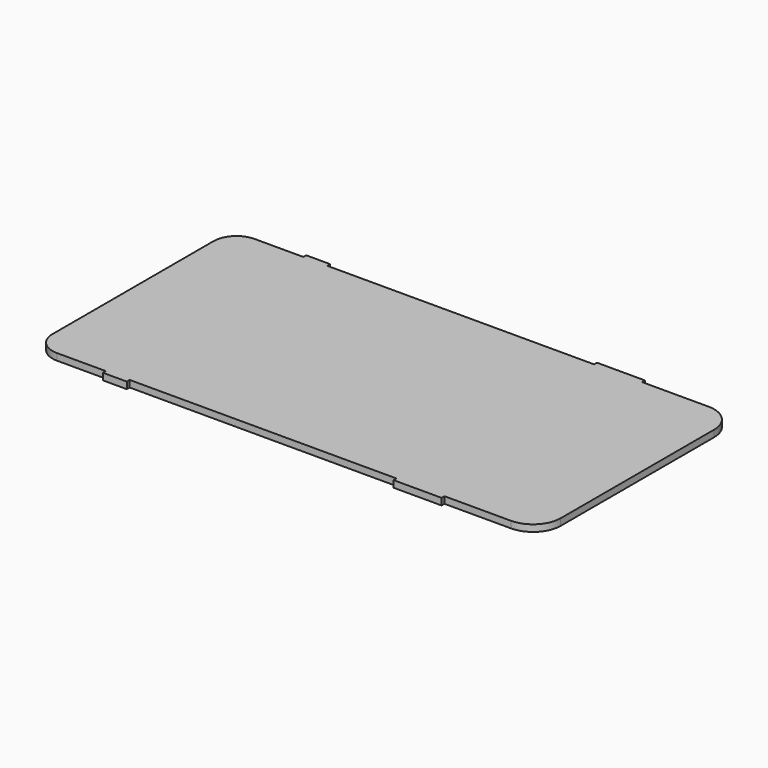
from build123d import *

# Parameters (mm, degrees)
F0_W     = 55.6136657298
F0_H     = 51.5
F0_W_2   = 5
F0_W_3   = 10
F0_H_2   = 0.75
F1_DEPTH = 1.4


with BuildPart() as f1:
    # F0 (on Top) → F1 (new body)
    with BuildSketch(Plane.XY):
        with Locations((-3.5062433155, 0)):
            Rectangle(F0_W, F0_H)
        with Locations((-33.8130761804, 0)):
            Rectangle(F0_W_2, F0_H)
        with BuildLine():
            ThreePointArc((-51.2033691825, -21), (-49.8121263931, -24.3587572106), (-46.4533691825, -25.75))
            Line((-46.4533691825, -25.75), (-36.3130761804, -25.75))
            Line((-36.3130761804, -25.75), (-36.3130761804, 25.75))
            Line((-36.3130761804, 25.75), (-46.4533691825, 25.75))
            ThreePointArc((-46.4533691825, 25.75), (-49.8121263931, 24.3587572106), (-51.2033691825, 21))
            Line((-51.2033691825, 21), (-51.2033691825, -21))
        make_face()
        with Locations((29.3005895494, 0)):
            Rectangle(F0_W_3, F0_H)
        with BuildLine():
            Line((34.3005895494, 25.75), (34.3005895494, -25.75))
            Line((34.3005895494, -25.75), (48.1754575549, -25.75))
            ThreePointArc((48.1754575549, -25.75), (52.2413215467, -24.0658639918), (53.9254575549, -20))
            Line((53.9254575549, -20), (53.9254575549, 20))
            ThreePointArc((53.9254575549, 20), (52.2413215467, 24.0658639918), (48.1754575549, 25.75))
            Line((48.1754575549, 25.75), (34.3005895494, 25.75))
        make_face()
        with Locations((29.3005895494, -26.125)):
            Rectangle(F0_W_3, F0_H_2)
        with Locations((29.3005895494, 26.125)):
            Rectangle(F0_W_3, F0_H_2)
        with Locations((-33.8130761804, 26.125)):
            Rectangle(F0_W_2, F0_H_2)
        with Locations((-33.8130761804, -26.125)):
            Rectangle(F0_W_2, F0_H_2)
    extrude(amount=F1_DEPTH)


solid = f1.part
